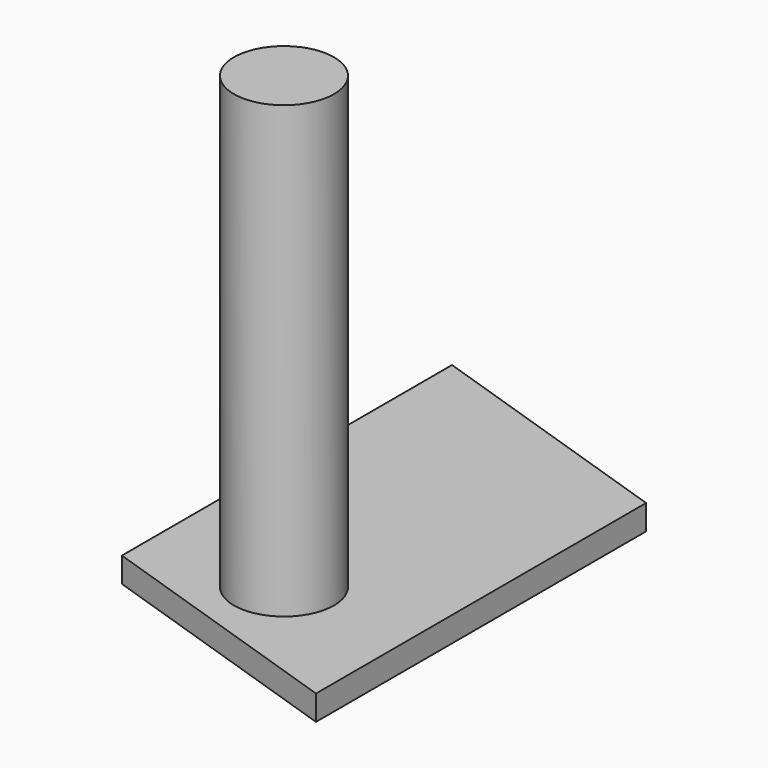
from build123d import *

# Parameters (mm, degrees)
F1_DEPTH = 1.5875
F2_R     = 3.175
F3_DEPTH = 28.575


with BuildPart() as f1:
    # F0 (on Top) → F1 (new body)
    with BuildSketch(Plane.XY):
        Polygon((-8.382, -10.31875), (8.382, -15.875), (8.382, 10.31875), (-8.382, 15.875), align=None)
    extrude(amount=-F1_DEPTH)

    # F2 (on Top) → F3 (join)
    with BuildSketch(Plane.XY):
        with Locations((0, -7.9375)):
            Circle(F2_R)
    extrude(amount=F3_DEPTH)


solid = f1.part
